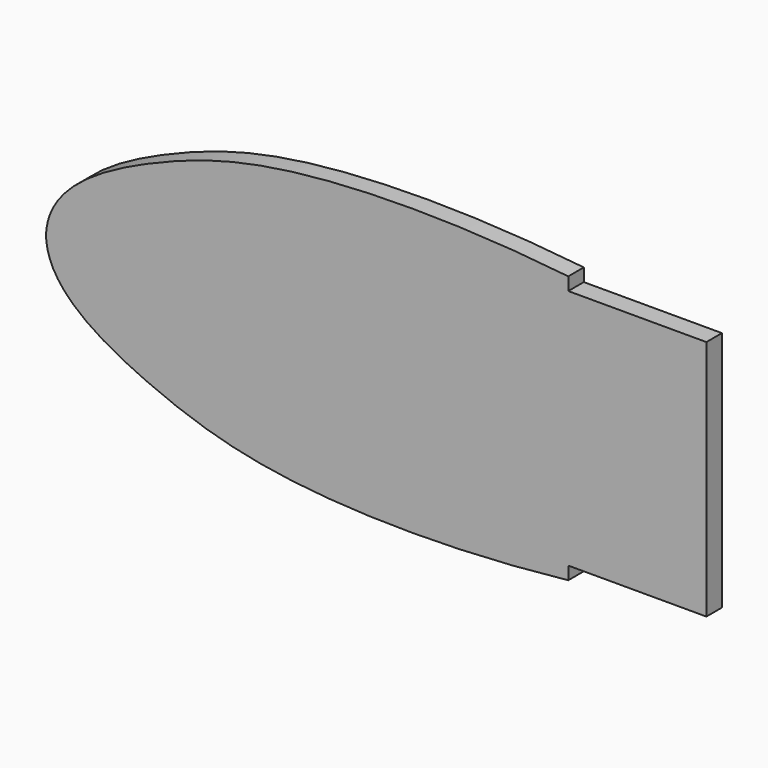
from build123d import *

# Parameters (mm, degrees)
F1_DEPTH = 18


with BuildPart() as f1:
    # F0 (on Front) → F1 (new body)
    with BuildSketch(Plane.XZ):
        with BuildLine():
            Line((295, -217), (-317, -217))
            add(Edge.make_bspline(
                [(167, -341), (73.2052326202, -351.3030406237), (-82.9134855426, -352.2458970512), (-215.8919105735, -315.6215987583), (-316.2735343339, -258.65300402), (-317, -217)],
                knots=[0, 0, 0, 0, 0.4043982891, 0.7107448428, 1, 1, 1, 1], degree=3))
            Line((167, -341), (167, -329))
            Line((167, -329), (295, -329))
            Line((295, -329), (295, -217))
        make_face()
        with BuildLine():
            add(Edge.make_bspline(
                [(167, -93), (73.2052326202, -82.6969593763), (-82.9134855426, -81.7541029488), (-215.8919105735, -118.3784012417), (-316.2735343339, -175.34699598), (-317, -217)],
                knots=[0, 0, 0, 0, 0.4043982891, 0.7107448428, 1, 1, 1, 1], degree=3))
            Line((-317, -217), (295, -217))
            Line((295, -217), (295, -105))
            Line((295, -105), (167, -105))
            Line((167, -105), (167, -93))
        make_face()
    extrude(amount=F1_DEPTH)


solid = f1.part
